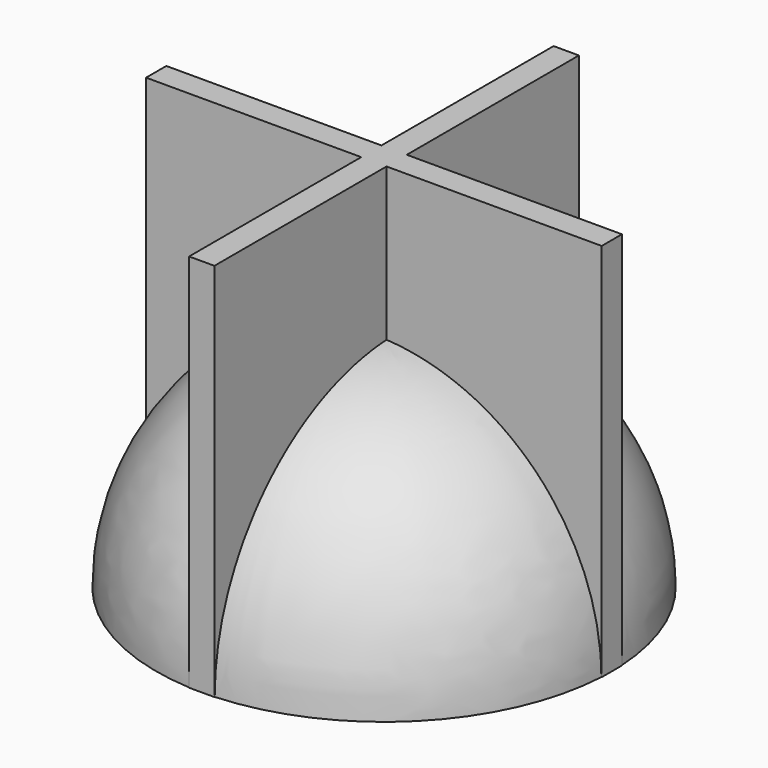
from build123d import *

# Parameters (mm, degrees)
F3_DEPTH = 75


with BuildPart() as f1:
    # F0 (on Front) → F1 (revolve)
    with BuildSketch(Plane.XZ):
        with BuildLine():
            Line((0, 45), (0, 40))
            ThreePointArc((0, 40), (28.284271, 28.284271), (40, 0))
            Line((40, 0), (45, 0))
            ThreePointArc((45, 0), (31.819805, 31.819805), (0, 45))
        make_face()
    revolve(axis=Axis((0, 0, 42.5), (0, 0, 1)))

    # F2 (on Top) → F3 (join)
    with BuildSketch(Plane.XY):
        Polygon((2.5, -2.5), (45, -2.5), (45, 2.5), (2.5, 2.5), (2.5, 45), (-2.5, 45), (-2.5, 2.5), (-45, 2.5), (-45, -2.5), (-2.5, -2.5), (-2.5, -45), (2.5, -45), align=None)
    extrude(amount=F3_DEPTH)


solid = f1.part
